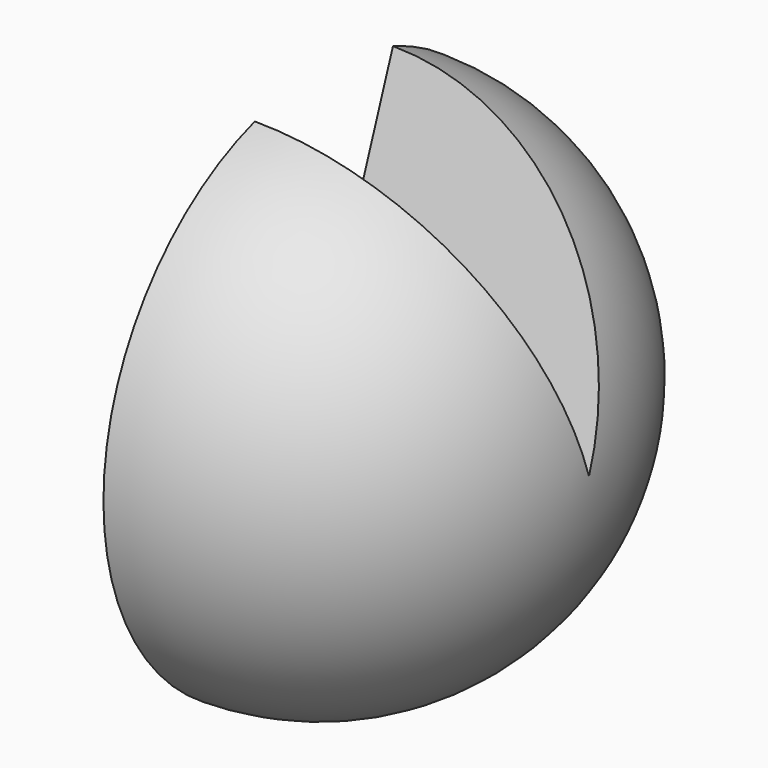
from build123d import *

# Parameters (mm, degrees)
F3_DEPTH = 63.5


with BuildPart() as f1:
    # F0 (on Front) → F1 (revolve)
    with BuildSketch(Plane.XZ):
        with BuildLine():
            Line((0, 0), (51.3798528227, 0))
            ThreePointArc((51.3798528227, 0), (36.3310423473, 36.3310423473), (0, 51.3798528227))
            Line((0, 51.3798528227), (0, 0))
        make_face()
    revolve(axis=Axis((25.6899264113, 0, 0), (-1, 0, 0)))

    # F2 (on face) → F3 (cut)
    with BuildSketch(Plane(origin=(0, 0, 0), x_dir=(0, -1, 0), z_dir=(-1, 0, 0))):
        with BuildLine():
            Line((-17.5514876107, 48.2890728709), (0, 0))
            Line((0, 0), (15.3502206104, 49.0332540557))
            ThreePointArc((15.3502206104, 49.0332540557), (-1.1618285203, 51.3667152013), (-17.5514876107, 48.2890728709))
        make_face()
    extrude(amount=-F3_DEPTH, mode=Mode.SUBTRACT)


solid = f1.part
